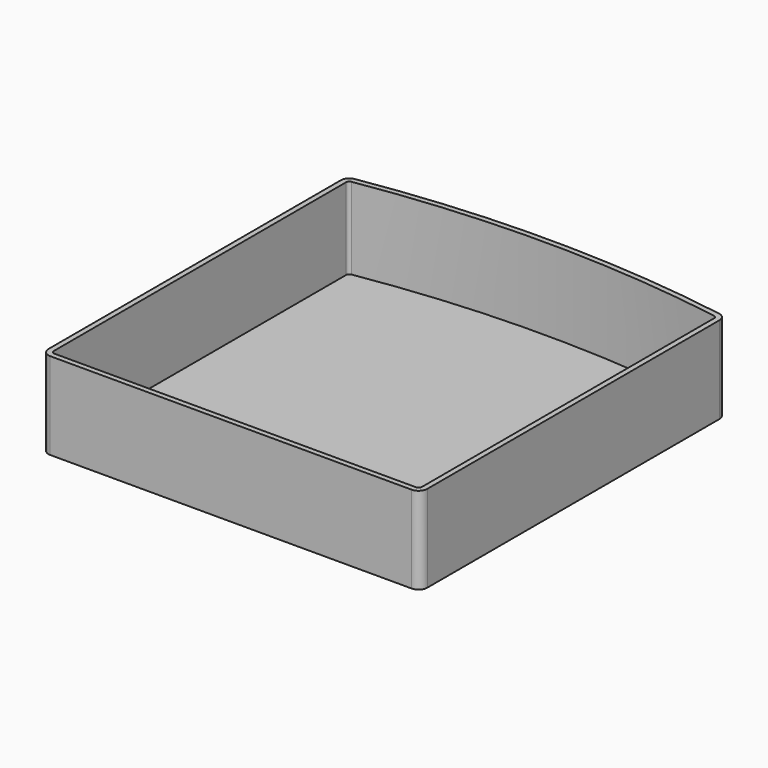
from build123d import *

# Parameters (mm, degrees)
F1_DEPTH = 26
F2_DEPTH = 1.6


with BuildPart() as f1:
    # F0 (on Top) → F1 (new body)
    with BuildSketch(Plane.XY):
        with BuildLine():
            ThreePointArc((54.416171, 57.216655), (0, 61.6), (-54.416171, 57.216655))
            ThreePointArc((-54.416171, 57.216655), (-55.980157, 56.335105), (-56.6, 54.650179))
            Line((-56.6, 54.650179), (-56.6, -54.5))
            ThreePointArc((-56.6, -54.5), (-55.838478, -56.338478), (-54, -57.1))
            Line((-54, -57.1), (54, -57.1))
            ThreePointArc((54, -57.1), (55.838478, -56.338478), (56.6, -54.5))
            Line((56.6, -54.5), (56.6, 54.650179))
            ThreePointArc((56.6, 54.650179), (55.980157, 56.335105), (54.416171, 57.216655))
        make_face()
        with BuildLine():
            Line((54, -55.5), (-54, -55.5))
            ThreePointArc((-54, -55.5), (-54.707107, -55.207107), (-55, -54.5))
            Line((-55, -54.5), (-55, 54.650179))
            ThreePointArc((-55, 54.650179), (-54.761599, 55.298228), (-54.160066, 55.637285))
            ThreePointArc((-54.160066, 55.637285), (0, 60), (54.160066, 55.637285))
            ThreePointArc((54.160066, 55.637285), (54.761599, 55.298228), (55, 54.650179))
            Line((55, 54.650179), (55, -54.5))
            ThreePointArc((55, -54.5), (54.707107, -55.207107), (54, -55.5))
        make_face(mode=Mode.SUBTRACT)
    extrude(amount=F1_DEPTH)

    # F0 (on Top) → F2 (join)
    with BuildSketch(Plane.XY):
        with BuildLine():
            ThreePointArc((-55, -54.5), (-54.707107, -55.207107), (-54, -55.5))
            Line((-54, -55.5), (54, -55.5))
            ThreePointArc((54, -55.5), (54.707107, -55.207107), (55, -54.5))
            Line((55, -54.5), (55, 54.650179))
            ThreePointArc((55, 54.650179), (54.761599, 55.298228), (54.160066, 55.637285))
            ThreePointArc((54.160066, 55.637285), (0, 60), (-54.160066, 55.637285))
            ThreePointArc((-54.160066, 55.637285), (-54.761599, 55.298228), (-55, 54.650179))
            Line((-55, 54.650179), (-55, -54.5))
        make_face()
    extrude(amount=F2_DEPTH)


solid = f1.part
